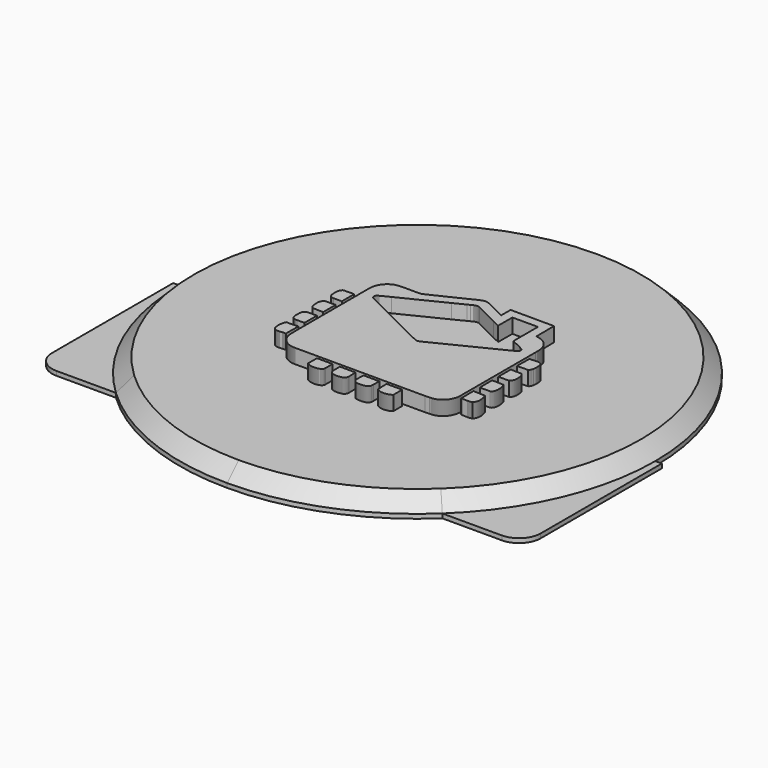
from build123d import *

# Parameters (mm, degrees)
F1_DEPTH = 0.6
F2_DEPTH = 2
F2_TAPER = 45
F4_DEPTH = 4
F5_R     = 3


with BuildPart() as f1:
    # F0 (on Top) → F1 (new body)
    with BuildSketch(Plane.XY):
        with BuildLine():
            Line((0, -24), (-22.6495033058, -24))
            ThreePointArc((-22.6495033058, -24), (-12.186057607, -30.6675724504), (0, -33))
            Line((0, -33), (0, -24))
        make_face()
        with BuildLine():
            ThreePointArc((0, -33), (12.186057607, -30.6675724504), (22.6495033058, -24))
            Line((22.6495033058, -24), (0, -24))
            Line((0, -24), (0, -33))
        make_face()
        with BuildLine():
            ThreePointArc((22.6495033058, -24), (30.302092412, -13.0684044724), (33, 0))
            ThreePointArc((33, 0), (0, 33), (-33, 0))
            ThreePointArc((-33, 0), (-30.302092412, -13.0684044724), (-22.6495033058, -24))
            Line((-22.6495033058, -24), (0, -24))
            Line((0, -24), (22.6495033058, -24))
        make_face()
        with BuildLine():
            ThreePointArc((-22.6495033058, -24), (-30.302092412, -13.0684044724), (-33, 0))
            Line((-33, 0), (-33.9, 0))
            Line((-33.9, 0), (-33.9, -24))
            Line((-33.9, -24), (-22.6495033058, -24))
        make_face()
        with BuildLine():
            Line((33.9, 0), (33, 0))
            ThreePointArc((33, 0), (30.302092412, -13.0684044724), (22.6495033058, -24))
            Line((22.6495033058, -24), (33.9, -24))
            Line((33.9, -24), (33.9, 0))
        make_face()
    extrude(amount=-F1_DEPTH)

    # F0 (on Top) → F2 (join)
    with BuildSketch(Plane.XY):
        with BuildLine():
            ThreePointArc((22.6495033058, -24), (30.302092412, -13.0684044724), (33, 0))
            ThreePointArc((33, 0), (0, 33), (-33, 0))
            ThreePointArc((-33, 0), (-30.302092412, -13.0684044724), (-22.6495033058, -24))
            Line((-22.6495033058, -24), (0, -24))
            Line((0, -24), (22.6495033058, -24))
        make_face()
        with BuildLine():
            Line((0, -24), (-22.6495033058, -24))
            ThreePointArc((-22.6495033058, -24), (-12.186057607, -30.6675724504), (0, -33))
            Line((0, -33), (0, -24))
        make_face()
        with BuildLine():
            ThreePointArc((0, -33), (12.186057607, -30.6675724504), (22.6495033058, -24))
            Line((22.6495033058, -24), (0, -24))
            Line((0, -24), (0, -33))
        make_face()
    extrude(amount=F2_DEPTH, taper=F2_TAPER)

    # F3 (on Top) → F4 (join)
    with BuildSketch(Plane.XY):
        Polygon((9.4269419945, 11.8972070474), (3.3869286816, 11.9156423447), (3.3851533988, 10.2973705194), (1.0469633428, 11.4359142686), (0.5762196665, 11.6568354771), (0.4432116742, 11.7067032156), (0.3533763147, 11.7349436031), (0.2625777239, 11.758285765), (0.2168177567, 11.7678835229), (0.1708072629, 11.7759738022), (0.1245462427, 11.7824615755), (0.0780346958, 11.7872518156), (0.0312683031, 11.7902451757), (-0.0157529357, 11.791350948), (-0.0630376592, 11.7904741052), (-0.1105815481, 11.7875153004), (-0.1583889218, 11.7823838259), (-0.2064640998, 11.7749846543), (-0.2548114014, 11.7652184389), (-0.3568232142, 11.735401462), (-0.5071909676, 11.6841169527), (-0.7035260204, 11.6054732183), (-1.654326049, 11.1387163694), (-6.0298885853, 9.0300042989), (-6.5006797753, 8.8333496087), (-6.6307980736, 8.8070702392), (-6.9432521749, 8.7949585771), (-7.4643646428, 8.7899480465), (-8.9237378543, 8.7959606833), (-9.2360969282, 8.7855811098), (-9.4441937699, 8.7737458908), (-9.6521610289, 8.7572025007), (-9.7329644749, 8.7491726934), (-9.8130897714, 8.7378298886), (-9.8924807661, 8.7232561554), (-9.9710597092, 8.7055292434), (-10.0487661289, 8.6847225829), (-10.1255309144, 8.6609182427), (-10.2012849549, 8.6341896532), (-10.2759634591, 8.604614564), (-10.3494973161, 8.572275044), (-10.4218217348, 8.5372402041), (-10.4928676042, 8.4995964327), (-10.5625701331, 8.4594128406), (-10.6308602106, 8.4167714967), (-10.6976687261, 8.3717458314), (-10.7629352076, 8.3244179137), (-10.8265862248, 8.2748611736), (-10.8885526671, 8.2231576804), (-10.9487740625, 8.1693808641), (-11.0071813003, 8.113604155), (-11.0637052696, 8.0559139414), (-11.1182768597, 7.9963836537), (-11.1708355987, 7.935086722), (-11.2213080565, 7.8721052153), (-11.2696294415, 7.8075168832), (-11.3157349626, 7.7413908366), (-11.3595511894, 7.6738177832), (-11.4010176502, 7.6048625145), (-11.4400609146, 7.5346114189), (-11.4766205109, 7.4631336072), (-11.5055865615, 7.4065621242), (-11.5322114848, 7.3492779365), (-11.5565903082, 7.2913199187), (-11.5788310172, 7.2327312652), (-11.5990329586, 7.1735508507), (-11.6172997984, 7.1138132307), (-11.6337265641, 7.0535615993), (-11.6484212411, 6.992830512), (-11.6614831762, 6.9316674824), (-11.6730117162, 6.8701027464), (-11.6831148466, 6.8081838178), (-11.6918875947, 6.7459409324), (-11.7058566087, 6.6206560684), (-11.7193850415, 6.431309842), (-11.736269666, 5.6768362274), (-11.7346671601, -6.6224572678), (-11.7055283325, -7.4119268476), (-11.6776119017, -7.6570368249), (-11.6524901376, -7.8027568791), (-11.6196884393, -7.9471206344), (-11.5929857664, -8.0424805359), (-11.5576658445, -8.1405659933), (-11.5176939041, -8.2364701421), (-11.4732384027, -8.3300849966), (-11.4244634782, -8.4213068909), (-11.37152463, -8.5100321586), (-11.314585996, -8.5961614532), (-11.2538117145, -8.6795824695), (-11.189361604, -8.7602044997), (-11.1213954831, -8.8379109194), (-11.0500818095, -8.9126067013), (-10.9755760822, -8.9841838597), (-10.8980467589, -9.052543048), (-10.8176493387, -9.1175762807), (-10.7345522791, -9.1791842109), (-10.6489110793, -9.237258853), (-10.5608898775, -9.291696541), (-10.4706571312, -9.3424022476), (-10.37836402, -9.3892636677), (-10.2841790016, -9.4321771351), (-10.188266214, -9.4710433032), (-10.0907811564, -9.5057585059), (-9.9918879669, -9.5362147574), (-9.8917507836, -9.5623127111), (-9.7905337445, -9.5839487009), (-9.688392349, -9.6010190606), (-9.5854907349, -9.6134158046), (-9.48199736, -9.6210395862), (-9.3780634038, -9.6237910586), (-9.2738616435, -9.6215535975), (8.7261372105, -9.6279765795), (9.3621981632, -9.6138866217), (9.5538380032, -9.5996411647), (9.6807858451, -9.5853654717), (9.8066970254, -9.5664507184), (9.8691645208, -9.5550258446), (9.9312475875, -9.5421798806), (9.9929116702, -9.5278177991), (10.0541092552, -9.5118532117), (10.1148057871, -9.4941954105), (10.1749537523, -9.4747623264), (10.2345185954, -9.4534589322), (10.2934528028, -9.4302031588), (10.351721819, -9.4048999789), (10.4092824498, -9.3774673235), (10.4660915011, -9.3478144846), (10.5221100979, -9.3158507544), (10.6015702033, -9.2693694436), (10.678797167, -9.2197435928), (10.7537305172, -9.1670811876), (10.82632274, -9.1114988525), (10.8965176831, -9.053104573), (10.9642678328, -8.9920149736), (11.0295083978, -8.9283466787), (11.0921961837, -8.8622076737), (11.1522793576, -8.7937145833), (11.209693128, -8.7229753929), (11.2643986203, -8.6501110464), (11.3163310429, -8.5752295293), (11.3654472018, -8.4984431467), (11.411686625, -8.419868523), (11.4549974794, -8.3396136438), (11.4953279319, -8.2577994528), (11.5326261494, -8.1745339357), (11.5668359796, -8.0899337169), (11.5979055892, -8.004106782), (11.6257831452, -7.9171697554), (11.6504124951, -7.829234942), (11.6717461253, -7.7404189664), (11.6897235638, -7.6508298141), (11.704297297, -7.56057979), (11.7154111723, -7.469789838), (11.7230133568, -7.3785679438), (11.7270520173, -7.2870264122), (11.7274710013, -7.1952775484), (11.7242227953, -7.1034379767), (11.7289223275, 5.7971235189), (11.7248793475, 6.1612724746), (11.7151995206, 6.3838048279), (11.7039949374, 6.5325312005), (11.6880217111, 6.6808169919), (11.6779920109, 6.7545970561), (11.6664548321, 6.828027247), (11.6533151474, 6.9010341345), (11.6384649711, 6.9735356495), (11.6217963178, 7.0454497229), (11.60321416, 7.1167029247), (11.5826105123, 7.1872175051), (11.5598817085, 7.2569070757), (11.5349240825, 7.3256982063), (11.5076382874, 7.3935088279), (11.4779120184, 7.4602611909), (11.4456459286, 7.5258775456), (11.4107406713, 7.5902758231), (11.3730839417, 7.6533782736), (11.3325807122, 7.7151114671), (11.2891229975, 7.775389015), (11.2426071312, 7.8341331677), (11.1992703603, 7.8932703879), (11.1539812102, 7.9505286592), (11.1068131111, 8.0059209397), (11.0578308543, 8.0594472294), (11.0071121895, 8.1111204867), (10.9547175886, 8.160945031), (10.9007248011, 8.208929501), (10.8451986185, 8.2550782163), (10.788212471, 8.2994041351), (10.7298397886, 8.3419072574), (10.6701410434, 8.3826005414), (10.6091939849, 8.4214883067), (10.5470634045, 8.4585791919), (10.4838270519, 8.4938775166), (10.4195453989, 8.5273919197), (10.3542961951, 8.5591310398), (10.2881485513, 8.589103516), (10.2211672589, 8.6173093482), (10.1534257481, 8.643765814), (10.084997449, 8.6684729135), (10.015947153, 8.6914349662), (9.9463482903, 8.7126692496), (9.8762656522, 8.7321757639), (9.8057769883, 8.7499631478), (9.73494709, 8.7660400402), (9.6638493875, 8.7804107605), (9.5925486721, 8.793088267), (9.5211226935, 8.8040725596), (9.4496362429, 8.8133722774), align=None)
        Polygon((4.6436259274, 8.191038451), (4.6463342056, 10.6561201963), (8.1865289734, 10.6558610309), (8.1908224798, 6.4087451763), (9.5975332863, 5.7258875949), (9.8446042816, 5.5856877633), (10.0260330057, 5.4736678473), (10.0447922598, 5.4584375619), (10.0622081733, 5.441937366), (10.0782764268, 5.4242622871), (10.0930056592, 5.405503033), (10.1063872317, 5.3857546311), (10.118429783, 5.3651077892), (10.1291333132, 5.343661854), (10.1384891834, 5.3215075335), (10.1465103519, 5.2987398549), (10.1531881798, 5.2754538455), (10.1585269867, 5.2517402133), (10.1625267723, 5.2276983049), (10.1651918563, 5.2034145088), (10.1665049609, 5.1545100016), (10.1651529815, 5.1300793452), (10.1624706198, 5.1057825908), (10.158449237, 5.0817234047), (10.1530931525, 5.0579838559), (10.1464066857, 5.0346676106), (10.1383811978, 5.0118610572), (10.1290253276, 4.9896678618), (10.1183390751, 4.9681700936), (10.1063181209, 4.9474714186), (10.0929667844, 4.9276625447), (10.0782850657, 4.9088341799), (10.0622686452, 4.8910813514), (10.0449261619, 4.8745034059), (10.0262576157, 4.8591910514), (9.2084569405, 4.4110811516), (3.8038264309, 1.7230955826), (0.5083269758, 0.0924356521), (0.2501464245, -0.0188240454), (0.1404071639, -0.0516559796), (0.0849716892, -0.0632233944), (0.0294325483, -0.0707694264), (-0.0260072459, -0.0737109534), (-0.0536213171, -0.0732703723), (-0.0811360415, -0.071460534), (-0.1085211833, -0.0682036891), (-0.1357551453, -0.0634307267), (-0.1628076916, -0.0570638972), (-0.1896572249, -0.0490340898), (-0.2162778288, -0.039263555), (-0.2426392674, -0.0276788626), (-0.2687199434, -0.0142109017), (-1.3674818068, 0.5184128285), (-2.9128547302, 1.2967858106), (-4.2980461712, 1.9645383697), (-9.575055009, 4.5915596026), (-9.8023991995, 4.7139418143), (-9.962572043, 4.8046712944), (-10.0040730592, 4.8348511028), (-10.0425418404, 4.8678169391), (-10.0773607091, 4.9040655369), (-10.0932086721, 4.9235720512), (-10.1079076686, 4.944084991), (-10.1213885877, 4.9656605088), (-10.1335650412, 4.9883633961), (-10.1443635986, 5.0122541247), (-10.1537065106, 5.0373931665), (-10.1633690598, 5.0658322475), (-10.1707466343, 5.0937270812), (-10.1759299419, 5.1210733482), (-10.1789967322, 5.1478624096), (-10.1800333937, 5.1740813072), (-10.1791219955, 5.199730041), (-10.1763446065, 5.2247956526), (-10.1717876152, 5.2492738227), (-10.1655330908, 5.2731559125), (-10.1576587826, 5.296433283), (-10.1482597182, 5.3190972954), (-10.1374050082, 5.341139311), (-10.12518968, 5.3625550102), (-10.1116871637, 5.3833357542), (-10.0811747596, 5.4229621408), (-10.0465286678, 5.4599579988), (-10.0084227181, 5.4942585368), (-9.9462187076, 5.540519557), (-9.8799630782, 5.580374873), (-9.8119019301, 5.613612833), (-8.5670917364, 6.2440153415), (-2.6240840252, 9.1783462428), (-1.0665605649, 9.9635352744), (-0.7560372458, 10.1225418737), (-0.4552844614, 10.2705166667), (-0.3371698396, 10.3192872717), (-0.2573684998, 10.3469013429), (-0.2172281019, 10.3588445475), (-0.1769624407, 10.3693666619), (-0.1365974328, 10.3783424229), (-0.0961546753, 10.3856292895), (-0.0556644041, 10.3911019984), (-0.0151525359, 10.394630967), (0.025355013, 10.3960779737), (0.0658366453, 10.3953134358), (0.1062621251, 10.3922034513), (0.1466098553, 10.3866227568), (0.1868495999, 10.3784331308), (0.2269597619, 10.3675049906), (0.2669144246, 10.3537044341), (0.3066833521, 10.3369018787), (0.3462406279, 10.3169634221), (0.3855689743, 10.2937594818), (3.6086749, 8.6839796421), (4.4949513879, 8.2597561514), align=None, mode=Mode.SUBTRACT)
        Polygon((12.2208268571, 4.2145776412), (12.1632143931, 4.2213073023), (12.141850527, 2.0668914171), (13.6223932307, 2.1063363878), (13.6622442272, 2.1237047877), (13.6992746406, 2.14494771), (13.7335838174, 2.1697282397), (13.7652840628, 2.1976878648), (13.8081716137, 2.2448257279), (13.8457808297, 2.2971598569), (13.8977218913, 2.3927141325), (13.9672991569, 2.5954203342), (13.9798557195, 2.6910955536), (14.0099966532, 3.030152981), (14.0138063843, 3.2249935135), (14.0083250365, 3.37069629), (14.0001094939, 3.4673390601), (13.987876888, 3.5634030275), (13.9713075814, 3.6587370125), (13.9500862562, 3.7531898351), (13.923901914, 3.8465973574), (13.9088444055, 3.8928626971), (13.8924305981, 3.9388127189), (13.8746172977, 3.9844215063), (13.831099111, 4.0340473571), (13.7852613941, 4.0778506257), (13.7372510076, 4.1161509494), (13.6871932145, 4.149272285), (13.635221917, 4.1775213114), (13.5814753366, 4.2012263048), (13.5260873756, 4.2206939442), (13.4691876164, 4.2362525058), (13.4109142808, 4.2482129881), (13.3514012708, 4.2568950283), (13.290778169, 4.2626182638), (13.2291875165, 4.2656980124), (13.1667545766, 4.266449592), (13.1036175706, 4.2651926399), (13.0399104009, 4.2622467934), (12.9757669694, 4.2579273704), (12.5892563609, 4.2209531096), (12.4630082656, 4.2120421399), (12.4009727125, 4.209653499), (12.3398399189, 4.2090703769), (12.2797481061, 4.2106037721), align=None)
        Polygon((13.6299954151, 0.9744488695), (12.1446797491, 1.0040153199), (12.1444076254, -1.1711337956), (13.6301854698, -1.1395933689), (13.6806233721, -1.1013794337), (13.7267936845, -1.060945315), (13.7688648645, -1.0184076374), (13.8070096889, -0.9738873446), (13.841392296, -0.927501061), (13.8721854625, -0.87937405), (13.8995533266, -0.8296272553), (13.9236686652, -0.7783729821), (13.9446999358, -0.7257364935), (13.9628112764, -0.6718344139), (13.9781797834, -0.6167876872), (13.9909652755, -0.5607215768), (14.0013448489, -0.503744068), (14.0094826418, -0.4459847437), (14.0155471117, -0.3875645477), (14.0197067161, -0.3285914655), (14.0221342318, -0.2691993994), (14.0229981164, -0.2094963347), (14.0206958639, -0.0896582631), (14.0097245295, 0.0893990977), (13.9881403728, 0.3218013326), (13.9774066067, 0.4331258215), (13.9701672537, 0.4785963873), (13.9529197977, 0.5445539765), (13.928700793, 0.6078119263), (13.8869276532, 0.6879329034), (13.8077267131, 0.7990630182), align=None)
        Polygon((13.7937836157, -2.2832124401), (12.1420664982, -2.2339969345), (12.163672252, -4.3933153648), (13.5612517982, -4.3715713894), (13.5826502197, -4.3666602055), (13.6239309453, -4.3535162013), (13.6631340284, -4.3361996345), (13.7001860388, -4.3150517395), (13.7350221853, -4.2904007925), (13.7675690376, -4.2625750696), (13.8119511088, -4.2156099833), (13.850787041, -4.1633622428), (13.8935450092, -4.0874181477), (13.9254698646, -4.0067226873), (13.9460044015, -3.923915029), (13.9597531249, -3.8675336007), (13.971977092, -3.8109016458), (13.9826849416, -3.7540321226), (13.9919025903, -3.696963906), (13.9996473157, -3.6397142736), (14.005940715, -3.5823177808), (14.0108000659, -3.5248003442), (14.0142383266, -3.4671835609), (14.0162857331, -3.4095019862), (14.0169552436, -3.3517815367), (14.0162684554, -3.2940394901), (14.010903732, -3.1786331465), (14.0003341039, -3.0634902877), (13.9847237092, -2.9488355237), (13.9642280471, -2.8348805062), (13.938993978, -2.7218412065), (13.909177001, -2.6099422343), (13.8749326155, -2.4993909222), (13.8364163207, -2.3904075606), align=None)
        Polygon((13.7937836157, -5.5227796868), (12.1420621787, -5.4735641812), (12.1636592937, -7.6312066754), (12.3221950759, -7.6315695069), (13.0715890491, -7.6530672752), (13.2308245779, -7.6473051649), (13.3360802774, -7.6387095131), (13.4404288981, -7.6255093565), (13.4922144604, -7.6169698572), (13.5437106214, -7.6070179066), (13.5949044227, -7.5955714357), (13.6457699479, -7.5825440559), (13.6962899193, -7.5678536983), (13.7467364604, -7.5119387676), (13.7924921082, -7.4536611126), (13.8337080425, -7.3931762324), (13.8705224847, -7.3306180291), (13.903090934, -7.2661420021), (13.9315559316, -7.1998863727), (13.9560729765, -7.1320066404), (13.9767802903, -7.0626453459), (13.9938290529, -6.9919450303), (14.0073661246, -6.9200568734), (14.0175426852, -6.8471234161), (14.0245012756, -6.7732958383), (14.0283930757, -6.6987166808), (14.0293606265, -6.6235328042), (14.0275594271, -6.5478910687), (14.0231320185, -6.4719383347), (14.0162252611, -6.3958214627), (14.0069903348, -6.3196829935), (13.9955697804, -6.2436741071), (13.9821147777, -6.1679373443), (13.9667721873, -6.0926238849), (13.9496888693, -6.0178719506), (13.9310160037, -5.9438370404), (13.9108961314, -5.870657376), (13.8894761128, -5.7984884566), (13.866911447, -5.7274685037), (13.8433403557, -5.6577443777), (13.8189140187, -5.5894672584), align=None)
        Polygon((5.9043791114, -10.0408961402), (3.7419031828, -10.0406974468), (3.7774995477, -11.4582500049), (3.7811451407, -11.4809096979), (3.7863327678, -11.5025413683), (3.7929803598, -11.5231795713), (3.8010144865, -11.5428588625), (3.8103660373, -11.5616181166), (3.8209529431, -11.5794918889), (3.8327104125, -11.5965190544), (3.8594217243, -11.6281761055), (3.8899125312, -11.6568786713), (3.9235824334, -11.6829204726), (3.9787544234, -11.7176270363), (4.2363518526, -11.8304158096), (4.2949923391, -11.8453307772), (4.3541166011, -11.858807377), (4.4136641665, -11.8708153729), (4.4735788829, -11.881324529), (4.5338045977, -11.8903132483), (4.5942765197, -11.8977426558), (4.6549384962, -11.903595474), (4.7157343749, -11.907832828), (4.7766036837, -11.9104331206), (4.8374859509, -11.9113617965), (4.8983207043, -11.9105972587), (4.9590561111, -11.908109271), (5.0196273797, -11.9038632782), (5.0799783578, -11.8978376831), (5.1400485734, -11.8899979304), (5.199781874, -11.8803224229), (5.2591177877, -11.8687766052), (5.3179958426, -11.8553345609), (5.3763598861, -11.8399660538), (5.4341494464, -11.8226451676), (5.4913083709, -11.8033416663), (5.5477761877, -11.7820253138), (5.6034924249, -11.7586701936), (5.65840093, -11.7332460699), (5.7124455505, -11.705727026), (5.7655614951, -11.676082826), (5.8176882918, -11.6442832339), (5.8687741076, -11.6102980137), (5.9187584705, -11.5741055685), align=None)
        Polygon((2.7337628139, -10.0407967935), (0.5599181641, -10.0416649975), (0.522032505, -10.7136030775), (0.5206330119, -11.0978287113), (0.5344076519, -11.2891143586), (0.5533267246, -11.4319879131), (0.5683453583, -11.468422246), (0.5853682044, -11.5031849623), (0.6043088742, -11.5363019784), (0.6250680211, -11.567790572), (0.6475592567, -11.5976766598), (0.6716875535, -11.6259904775), (0.6973665232, -11.6527449835), (0.7245011385, -11.6779704138), (0.7530006914, -11.7016926849), (0.7827701547, -11.7239290745), (0.8137231399, -11.7447054991), (0.8457646197, -11.7640478753), (0.8788082056, -11.7819821196), (0.9127545509, -11.7985255096), (0.9475172672, -11.813703962), (0.9830013271, -11.8275433933), (1.0191203422, -11.8400654006), (1.0557792851, -11.8512959004), (1.0928874481, -11.8612564898), (1.1680799636, -11.8774672843), (1.2439679062, -11.8888835193), (1.3198212934, -11.8956952493), (1.3949058234, -11.8981011679), (1.4684871941, -11.8962826909), (1.5612813583, -11.9012845827), (1.6576995184, -11.9036041128), (1.7565927079, -11.9024940211), (1.8568205991, -11.8972113668), (1.957229906, -11.8870088897), (2.0071451582, -11.8798343281), (2.0566759817, -11.8711479684), (2.1056798356, -11.8608591029), (2.1540141789, -11.8488813429), (2.2015321512, -11.8351110224), (2.2480955311, -11.8194617529), (2.2935574582, -11.8018385071), (2.3377753914, -11.782150577), (2.3806067898, -11.7602986161), (2.4219091125, -11.7361962358), (2.461535499, -11.7097527282), (2.4993477279, -11.6808644272), (2.5351989388, -11.6494449444), (2.5689465907, -11.6154035717), (2.6004481426, -11.578645282), (2.6295567342, -11.5390707285), (2.6561341438, -11.4965978422), (2.6800335113, -11.4511272764), (2.7011122955, -11.4025640036), (2.7197074115, -11.2629991272), (2.7358404564, -11.0289382339), align=None)
        Polygon((-0.5640604907, -10.0415181371), (-2.7388294971, -10.0405851418), (-2.7325576949, -10.9911216856), (-2.7139107458, -11.2396958401), (-2.6938167901, -11.387679272), (-2.6758609487, -11.4857215351), (-2.6376210969, -11.5372090572), (-2.5968543827, -11.5847875015), (-2.5537033469, -11.6285864507), (-2.5083062112, -11.668731168), (-2.4608055166, -11.7053382779), (-2.4113308456, -11.7385330436), (-2.3600333781, -11.7684407285), (-2.3070426968, -11.7951822762), (-2.2525013426, -11.8188829502), (-2.1965475371, -11.8396593748), (-2.1393238213, -11.8576454522), (-2.0809640972, -11.8729578067), (-2.0216109058, -11.8857217016), (-1.9614024687, -11.8960537614), (-1.9004770073, -11.9040878882), (-1.8389770627, -11.9099407064), (-1.7770365369, -11.9137331598), (-1.714797971, -11.9155948311), (-1.6523995864, -11.9156423447), (-1.5899796047, -11.9140052834), (-1.5276805668, -11.9108002715), (-1.4656363749, -11.9061568918), (-1.342874054, -11.8930344848), (-1.2228156918, -11.8756272101), (-1.1065670607, -11.8549112574), (-1.0502158683, -11.8436246051), (-1.0231546832, -11.8408774521), (-0.9966679814, -11.8365796262), (-0.9707687211, -11.83078728), (-0.9454698607, -11.8235565659), (-0.9207800388, -11.8149522753), (-0.8967078945, -11.8050219218), (-0.8732620664, -11.7938302968), (-0.8282925536, -11.7678835229), (-0.7859449306, -11.7375654929), (-0.7463012663, -11.7033340656), (-0.7094349911, -11.6656514194), (-0.6754281738, -11.6249710937), (-0.6299403303, -11.5593417807), (-0.5913160498, -11.4895528633), (-0.5598144979, -11.4171506951), (-0.5356948399, -11.3436773099), (-0.5296390089, -11.2538635476), align=None)
        Polygon((-3.7471383235, -10.0407838352), (-5.9091391155, -10.0405462669), (-5.9248963706, -11.574131485), (-5.8762855842, -11.6095723507), (-5.8266597334, -11.6428535049), (-5.7760706513, -11.6739965447), (-5.7245744903, -11.7030446643), (-5.6722144448, -11.7300237803), (-5.6190509865, -11.754977087), (-5.5651229904, -11.7779305008), (-5.5104952478, -11.7989185771), (-5.4552109529, -11.8179758714), (-5.3993219387, -11.8351369389), (-5.3428800385, -11.8504363352), (-5.2859370851, -11.8639086155), (-5.2285449118, -11.8755840159), (-5.1707553515, -11.8854970916), (-5.112615918, -11.8936823982), (-5.0541827637, -11.900174491), (-4.9955034023, -11.9050036059), (-4.9366296669, -11.9082086178), (-4.8776177099, -11.9098154431), (-4.8185107256, -11.9098672762), (-4.7593648666, -11.9083943529), (-4.7002319657, -11.9054269093), (-4.6411595369, -11.9010038202), (-4.5822037324, -11.8951553215), (-4.523412066, -11.8879116491), (-4.4648363708, -11.8793159973), (-4.4065284797, -11.8693942827), (-4.2909191233, -11.8457195253), (-4.1057497789, -11.7775676692), (-3.9923346893, -11.7208752424), (-3.9300788456, -11.6796506694), (-3.8922752556, -11.6486372123), (-3.8581518139, -11.6145094512), (-3.842662363, -11.5962037365), (-3.8283261981, -11.577021179), (-3.8152167493, -11.5569358621), (-3.8034160857, -11.5359132303), (-3.792993318, -11.5139273673), (-3.7840348347, -11.4909393981), (-3.776614066, -11.4669277257), (-3.7708044421, -11.4418534752), (-3.7666923514, -11.4156864107), (-3.7504513209, -11.2267030158), align=None)
        Polygon((-12.1480402602, -5.4735641812), (-13.7999733489, -5.5227753674), (-13.824788434, -5.5836058014), (-13.8482904145, -5.6450841489), (-13.870444735, -5.7071715351), (-13.8912211597, -5.7698161268), (-13.9105980912, -5.8329747298), (-13.9285409743, -5.8966127888), (-13.9450238925, -5.9606741513), (-13.9600166097, -6.0251242618), (-13.9734975289, -6.0899112873), (-13.9854277752, -6.154996353), (-13.9957857515, -6.2203362646), (-14.0045412219, -6.2858835086), (-14.0116682699, -6.3515948906), (-14.0171366594, -6.4174272165), (-14.0209161545, -6.4833329726), (-14.0229765193, -6.549273284), (-14.023300476, -6.6152049566), (-14.0218448305, -6.6810761573), (-14.0185923049, -6.7468480113), (-14.0135083441, -6.8124816437), (-14.0065670313, -6.8779209021), (-13.9977424501, -6.943131231), (-13.9870000452, -7.0080651169), (-13.9743182192, -7.0726793655), (-13.959662417, -7.1369307826), (-13.9430110414, -7.2007718544), (-13.9243252175, -7.2641637063), (-13.9035876677, -7.3270545051), (-13.8807638366, -7.3894096955), (-13.8372542887, -7.4390312269), (-13.7914295302, -7.4828301761), (-13.7434277824, -7.5211261803), (-13.693387267, -7.5542302382), (-13.6414332472, -7.5824706257), (-13.5877039446, -7.6061583414), (-13.5323332612, -7.6256087032), (-13.4754550992, -7.6411499871), (-13.4171990413, -7.6530888723), (-13.3577076283, -7.6617493154), (-13.2971061237, -7.6674509537), (-13.2355284295, -7.6705091052), (-13.1731170866, -7.6712434071), (-13.109993039, -7.6699691773), (-13.0463031469, -7.6670060532), (-12.9821726737, -7.6626736719), (-12.5956663846, -7.6256950916), (-12.4693837339, -7.6168186774), (-12.4073265837, -7.6144602724), (-12.3461635541, -7.6139073863), (-12.286037186, -7.6154882951), (-12.2270770621, -7.6195096779), (-12.1694127651, -7.6262954914), align=None)
        Polygon((-13.5150858052, -2.2664617177), (-13.670727574, -2.2880199579), (-13.7065010352, -2.3121525742), (-13.7397001204, -2.3381986948), (-13.7704284956, -2.3660460149), (-13.7987811881, -2.395599507), (-13.8248532253, -2.4267468662), (-13.8487439539, -2.4593887458), (-13.8705484012, -2.4934214796), (-13.8903615945, -2.528737082), (-13.9082871999, -2.5652318869), (-13.9244159254, -2.6028065475), (-13.9388427982, -2.6413573978), (-13.9516714845, -2.680776452), (-13.9629926921, -2.7209600442), (-13.9729100873, -2.761804508), (-13.9889005913, -2.8450613862), (-14.0004204924, -2.929722077), (-14.0110117176, -3.0575122063), (-14.0172792004, -3.2657127141), (-14.0184670417, -3.3831837419), (-14.0179789469, -3.4199938647), (-14.0159185821, -3.4967284142), (-14.0088908809, -3.61750812), (-13.9951939906, -3.7417304059), (-13.9812811291, -3.8245812584), (-13.9627896793, -3.9061492422), (-13.9516239708, -3.9461039049), (-13.9390717276, -3.9853156269), (-13.9250508806, -4.0236418671), (-13.9094793607, -4.0609487236), (-13.8922750989, -4.0970893358), (-13.873364665, -4.1319254822), (-13.8526573511, -4.1653189414), (-13.8300797271, -4.1971228529), (-13.805549724, -4.2272033147), (-13.7789852725, -4.2554177857), (-13.7503043038, -4.281623725), (-13.7194247488, -4.3056872305), (-13.6862688579, -4.3274571224), (-13.6507588815, -4.3467994986), (-13.612808431, -4.363571818), (-13.5723354376, -4.3776358593), (-13.5244719114, -4.3846030886), (-13.3803975573, -4.400118456), (-13.1873625437, -4.4101265591), (-12.1694084457, -4.3874366301), (-12.1480445796, -2.2323123595), (-13.2538255053, -2.2445665626), align=None)
        Polygon((-12.1505973586, 1.0057085338), (-13.6363752029, 0.9741724265), (-13.6868044664, 0.9359498524), (-13.7329704594, 0.8955070949), (-13.7750416393, 0.8529694172), (-13.8131864638, 0.8084534438), (-13.8475777097, 0.7620757991), (-13.8783795151, 0.7139574269), (-13.905756018, 0.6642192711), (-13.9298843149, 0.6129779562), (-13.9509328631, 0.5603544258), (-13.9690614815, 0.5064696239), (-13.9844429467, 0.451440175), (-13.9972500359, 0.3953870227), (-14.0076425677, 0.3384311111), (-14.0157933188, 0.2806890645), (-14.0218750664, 0.2222775074), (-14.0260519485, 0.1633217029), (-14.028488103, 0.1039382755), (-14.0293606265, 0.0442481692), (-14.0270670129, -0.0755812636), (-14.0160827202, -0.2546515827), (-13.994412175, -0.487140206), (-13.9835963398, -0.5985510833), (-13.9804258834, -0.6214353864), (-13.9657009704, -0.688265499), (-13.9437669404, -0.7523743751), (-13.9046416069, -0.833627041), (-13.828516096, -0.9464806056), (-13.6361851483, -1.1398741314), (-12.1508694822, -1.1694362624), align=None)
        Polygon((-12.1698447074, 4.2271169262), (-13.6255075347, 4.207467871), (-13.6606719573, 4.1882723552), (-13.6936723489, 4.167081266), (-13.7245691816, 4.1439982695), (-13.7534315661, 4.1191227125), (-13.7803372519, 4.092558261), (-13.8053467111, 4.0644172202), (-13.8285376931, 4.0347902979), (-13.8499749895, 4.0037897991), (-13.8697277108, 3.9715150704), (-13.887864968, 3.9380697782), (-13.9044645106, 3.9035619079), (-13.919582491, 3.8680864868), (-13.9333009785, 3.8317515006), (-13.9456804448, 3.7946606153), (-13.9567986396, 3.7569174972), (-13.97551038, 3.6798849075), (-13.9899977247, 3.6014787412), (-14.0050206779, 3.4831006346), (-14.0154520844, 3.32817589), (-14.0185145553, 3.2177800771), (-14.0177370592, 3.1403846559), (-14.0131714291, 2.9347066911), (-14.0004377701, 2.7645127862), (-13.9889135495, 2.679826179), (-13.9729144068, 2.5965347454), (-13.963001331, 2.5556686844), (-13.9516758039, 2.5154678146), (-13.9388471176, 2.4760314826), (-13.9244159254, 2.4374633547), (-13.9082871999, 2.3998670969), (-13.8903659139, 2.3633506949), (-13.8705484012, 2.3280221343), (-13.8487439539, 2.2939764422), (-13.8248532253, 2.2613216044), (-13.7987811881, 2.2301656063), (-13.7704284956, 2.2006121142), (-13.7397001204, 2.1727604747), (-13.7065010352, 2.1467229929), (-13.6707318934, 2.122594696), (-13.5151074023, 2.1011487608), (-13.3062848976, 2.0825406866), (-12.1482562313, 2.0668914171), align=None)
    extrude(amount=F4_DEPTH)

    # F5
    f5_edges = [f1.edges().sort_by_distance(p)[0] for p in [
        (-33.9, -24, -0.3),
        (33.9, -24, -0.3),
    ]]
    fillet(f5_edges, radius=F5_R)


solid = f1.part
